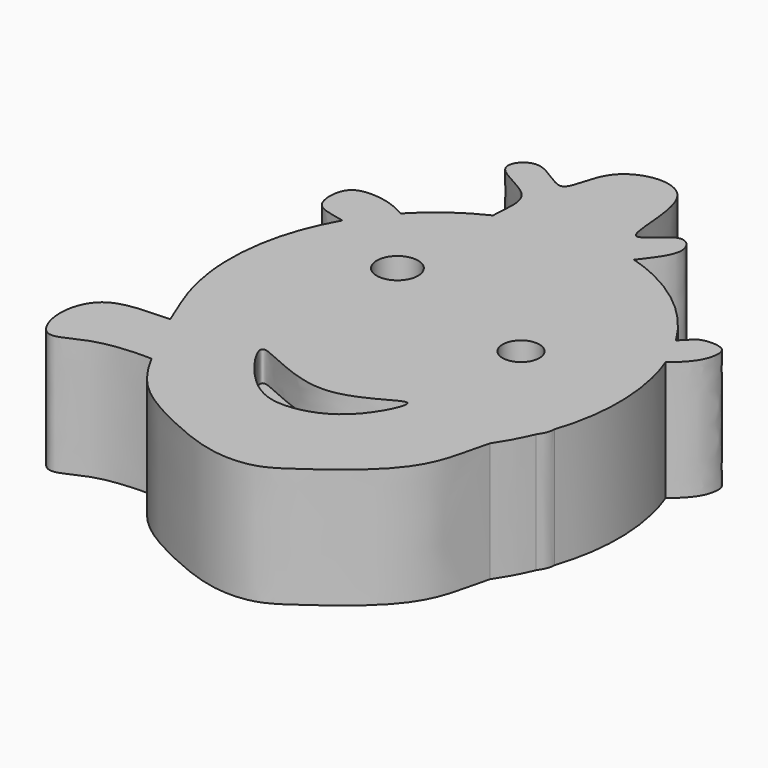
from build123d import *

# Parameters (mm, degrees)
F1_DEPTH = 20
F2_R     = 3.450121942
F2_R_2   = 3.0785056901
F3_DEPTH = 5


with BuildPart() as f1:
    # F0 (on Top) → F1 (new body)
    with BuildSketch(Plane.XY):
        with BuildLine():
            add(Edge.make_bspline(
                [(29.7017715109, -13.8018886657), (30.2424490524, -12.5284639479), (30.6817100321, -11.213025644)],
                knots=[1.1527914673, 1.1527914673, 1.1527914673, 1.2347100445, 1.2347100445, 1.2347100445], degree=2, weights=[1, 0.9991612856, 1]))
            add(Edge.make_bspline(
                [(30.6817100321, -11.213025644), (34.708540224, 0.8459709936), (30.1492533044, 12.695693315)],
                knots=[1.2347100445, 1.2347100445, 1.2347100445, 1.9534707094, 1.9534707094, 1.9534707094], degree=2, weights=[1, 0.9361149369, 1]))
            add(Edge.make_bspline(
                [(30.1492533044, 12.695693315), (29.0147047765, 15.6444186865), (27.3773586249, 18.3220409535)],
                knots=[1.9534707094, 1.9534707094, 1.9534707094, 2.1399075308, 2.1399075308, 2.1399075308], degree=2, weights=[1, 0.9956583093, 1]))
            add(Edge.make_bspline(
                [(27.3773586249, 18.3220409535), (20.7267636074, 29.19804374), (8.8519171525, 32.7145800478)],
                knots=[2.1399075308, 2.1399075308, 2.1399075308, 2.8657408022, 2.8657408022, 2.8657408022], degree=2, weights=[1, 0.9348653888, 1]))
            add(Edge.make_bspline(
                [(8.8519171525, 32.7145800478), (-2.5451541307, 36.089631264), (-13.3453627293, 31.0013230552)],
                knots=[2.8657408022, 2.8657408022, 2.8657408022, 3.5647337592, 3.5647337592, 3.5647337592], degree=2, weights=[1, 0.9395452502, 1]))
            add(Edge.make_bspline(
                [(-13.3453627293, 31.0013230552), (-18.8495819488, 28.4081172313), (-23.096546599, 23.9201088971)],
                knots=[3.5647337592, 3.5647337592, 3.5647337592, 3.9320327626, 3.9320327626, 3.9320327626], degree=2, weights=[1, 0.9831837737, 1]))
            add(Edge.make_bspline(
                [(-23.096546599, 23.9201088971), (-25.8085364067, 21.0541955067), (-27.8044370726, 17.6041079287)],
                knots=[3.9320327626, 3.9320327626, 3.9320327626, 4.1681491719, 4.1681491719, 4.1681491719], degree=2, weights=[1, 0.9930392206, 1]))
            add(Edge.make_bspline(
                [(-27.8044370726, 17.6041079287), (-33.8014571444, 7.2377380943), (-32.1799301678, -4.7599533709)],
                knots=[4.1681491719, 4.1681491719, 4.1681491719, 4.85284901, 4.85284901, 4.85284901], degree=2, weights=[1, 0.9419683956, 1]))
            add(Edge.make_bspline(
                [(-32.1799301678, -4.7599533709), (-31.6664898484, -7.8321181347), (-30.7952557297, -10.8309770505), (-29.7539456963, -13.6783451409)],
                knots=[0, 0, 0, 0, 0.0589354021, 0.0589354021, 0.0589354021, 0.0589354021], degree=3))
            add(Edge.make_bspline(
                [(-29.7539456963, -13.6783451409), (-21.2178956859, -34), (0, -34)],
                knots=[5.1264213734, 5.1264213734, 5.1264213734, 6.2831853072, 6.2831853072, 6.2831853072], degree=2, weights=[1, 0.8373482755, 1]))
            add(Edge.make_bspline(
                [(0, -34), (16.8769695088, -34), (26.5849481495, -19.5574965996)],
                knots=[0, 0, 0, 0.9579226583, 0.9579226583, 0.9579226583], degree=2, weights=[1, 0.8874740808, 1]))
            add(Edge.make_bspline(
                [(26.5849481495, -19.5574965996), (26.8844022138, -18.5352047025), (27.6995992329, -16.3013966795), (29.0862082372, -14.6958061684), (29.7017715109, -13.8018886657)],
                knots=[0.8888601347, 0.8888601347, 0.8888601347, 0.8888601347, 0.9202080916, 0.9615694415, 0.9615694415, 0.9615694415, 0.9615694415], degree=3))
        make_face()
        with BuildLine():
            add(Edge.make_bspline(
                [(29.7017715109, -13.8018886657), (30.2737170696, -12.9713125619), (30.6961194256, -12.1575167226), (30.6817100321, -11.213025644)],
                knots=[0.9615694415, 0.9615694415, 0.9615694415, 0.9615694415, 1, 1, 1, 1], degree=3))
            add(Edge.make_bspline(
                [(29.7017715109, -13.8018886657), (30.2424490524, -12.5284639479), (30.6817100321, -11.213025644)],
                knots=[1.1527914673, 1.1527914673, 1.1527914673, 1.2347100445, 1.2347100445, 1.2347100445], degree=2, weights=[1, 0.9991612856, 1]))
        make_face()
        with BuildLine():
            add(Edge.make_bspline(
                [(30.1492533044, 12.695693315), (29.0147047765, 15.6444186865), (27.3773586249, 18.3220409535)],
                knots=[1.9534707094, 1.9534707094, 1.9534707094, 2.1399075308, 2.1399075308, 2.1399075308], degree=2, weights=[1, 0.9956583093, 1]))
            add(Edge.make_bspline(
                [(27.3773586249, 18.3220409535), (28.6507177117, 19.5505148249), (29.2905101337, 20.8479356906), (34.0302548794, 20.8102361344), (34.2342793663, 17.5444166895), (32.9419942754, 14.8833340498), (30.1492533044, 12.695693315)],
                knots=[0, 0, 0, 0, 0.2363779321, 0.4774771861, 0.6692163083, 1, 1, 1, 1], degree=3))
        make_face()
        with BuildLine():
            add(Edge.make_bspline(
                [(26.5849481495, -19.5574965996), (28.4122378854, -16.8390482797), (29.7017715109, -13.8018886657)],
                knots=[0.9579226583, 0.9579226583, 0.9579226583, 1.1527914673, 1.1527914673, 1.1527914673], degree=2, weights=[1, 0.9952570225, 1]))
            add(Edge.make_bspline(
                [(26.5849481495, -19.5574965996), (26.8844022138, -18.5352047025), (27.6995992329, -16.3013966795), (29.0862082372, -14.6958061684), (29.7017715109, -13.8018886657)],
                knots=[0.8888601347, 0.8888601347, 0.8888601347, 0.8888601347, 0.9202080916, 0.9615694415, 0.9615694415, 0.9615694415, 0.9615694415], degree=3))
        make_face()
        with BuildLine():
            add(Edge.make_bspline(
                [(-22.8574276114, -28.461734013), (-21.4286408263, -31.0937109557), (-18.1711184134, -36.1387207151), (-8.8930644294, -41.0062149861), (-0.3673117397, -44.372766183), (6.8263243633, -44.0875854195), (11.6022133081, -40.8451261159), (19.9636257208, -34.7551525668), (24.9244424304, -28.1773265534), (25.8941359668, -21.9158272447), (26.5849481495, -19.5574965996)],
                knots=[0.1781244977, 0.1781244977, 0.1781244977, 0.1781244977, 0.2579459018, 0.3634236066, 0.4604826011, 0.5422590758, 0.6179730258, 0.7194843685, 0.8165433653, 0.8888601347, 0.8888601347, 0.8888601347, 0.8888601347], degree=3))
            add(Edge.make_bspline(
                [(0, -34), (16.8769695088, -34), (26.5849481495, -19.5574965996)],
                knots=[0, 0, 0, 0.9579226583, 0.9579226583, 0.9579226583], degree=2, weights=[1, 0.8874740808, 1]))
            add(Edge.make_bspline(
                [(-29.7539456963, -13.6783451409), (-21.2178956859, -34), (0, -34)],
                knots=[5.1264213734, 5.1264213734, 5.1264213734, 6.2831853072, 6.2831853072, 6.2831853072], degree=2, weights=[1, 0.8373482755, 1]))
            add(Edge.make_bspline(
                [(-29.7539456963, -13.6783451409), (-29.1853594736, -15.2330927331), (-28.5660653802, -16.7426735704), (-27.9266234964, -18.1943593012)],
                knots=[0.0589354021, 0.0589354021, 0.0589354021, 0.0589354021, 0.0911158831, 0.0911158831, 0.0911158831, 0.0911158831], degree=3))
            add(Edge.make_bspline(
                [(-27.9266234964, -18.1943593012), (-26.7572374034, -20.8491449008), (-24.928711996, -24.4879039219), (-23.361453992, -27.5332639109), (-22.8574276114, -28.461734013)],
                knots=[0.0911158831, 0.0911158831, 0.0911158831, 0.0911158831, 0.1499662771, 0.1781244977, 0.1781244977, 0.1781244977, 0.1781244977], degree=3))
        make_face()
        with BuildLine():
            add(Edge.make_bspline(
                [(8.8519171525, 32.7145800478), (-2.5451541307, 36.089631264), (-13.3453627293, 31.0013230552)],
                knots=[2.8657408022, 2.8657408022, 2.8657408022, 3.5647337592, 3.5647337592, 3.5647337592], degree=2, weights=[1, 0.9395452502, 1]))
            add(Edge.make_bspline(
                [(-13.3453627293, 31.0013230552), (-13.2039965664, 33.9993611407), (-12.0602535423, 38.9104448386), (-22.9372056925, 41.6933726664), (-17.6982155529, 48.0720825188), (-9.9584447601, 39.5484563713), (-10.4891769636, 52.093246964), (5.5509861472, 54.4160194147), (2.7788756697, 33.20394535), (9.5268371974, 43.0303530604), (13.4221900935, 38.4345977615), (10.6375198636, 35.0782475925), (8.8519171525, 32.7145800478)],
                knots=[0, 0, 0, 0, 0.1012441255, 0.2071280529, 0.2834658507, 0.3826185153, 0.4868798478, 0.6073999093, 0.7421562093, 0.8312479872, 0.8999522506, 1, 1, 1, 1], degree=3))
        make_face()
        with BuildLine():
            add(Edge.make_bspline(
                [(-27.9266234964, -18.1943593012), (-32.0653232012, -18.3761505405), (-38.5903169407, -18.2501835864), (-41.1123982372, -26.2174139351), (-38.141293842, -33.1221590015), (-32.2851784627, -28.5967174666), (-25.1775943875, -28.374192964), (-22.8574276114, -28.461734013)],
                knots=[0, 0, 0, 0, 0.2324839523, 0.4257011039, 0.5969067076, 0.7749438679, 1, 1, 1, 1], degree=3))
            add(Edge.make_bspline(
                [(-27.9266234964, -18.1943593012), (-26.7572374034, -20.8491449008), (-24.928711996, -24.4879039219), (-23.361453992, -27.5332639109), (-22.8574276114, -28.461734013)],
                knots=[0.0911158831, 0.0911158831, 0.0911158831, 0.0911158831, 0.1499662771, 0.1781244977, 0.1781244977, 0.1781244977, 0.1781244977], degree=3))
        make_face()
        with BuildLine():
            add(Edge.make_bspline(
                [(-32.1799301678, -4.7599533709), (-31.5536482494, -9.3938184466), (-29.7539456963, -13.6783451409)],
                knots=[4.85284901, 4.85284901, 4.85284901, 5.1264213734, 5.1264213734, 5.1264213734], degree=2, weights=[1, 0.9906593479, 1]))
            add(Edge.make_bspline(
                [(-32.1799301678, -4.7599533709), (-31.6664898484, -7.8321181347), (-30.7952557297, -10.8309770505), (-29.7539456963, -13.6783451409)],
                knots=[0, 0, 0, 0, 0.0589354021, 0.0589354021, 0.0589354021, 0.0589354021], degree=3))
        make_face()
        with BuildLine():
            add(Edge.make_bspline(
                [(-23.096546599, 23.9201088971), (-25.8085364067, 21.0541955067), (-27.8044370726, 17.6041079287)],
                knots=[3.9320327626, 3.9320327626, 3.9320327626, 4.1681491719, 4.1681491719, 4.1681491719], degree=2, weights=[1, 0.9930392206, 1]))
            add(Edge.make_bspline(
                [(-23.096546599, 23.9201088971), (-25.4189054895, 25.2084401928), (-28.3309475052, 26.0101253596), (-33.5175261395, 25.6440523755), (-33.6722318056, 18.4793473822), (-30.536944075, 18.2471703796), (-27.8044370726, 17.6041079287)],
                knots=[0, 0, 0, 0, 0.2712980575, 0.4928199065, 0.7393122626, 1, 1, 1, 1], degree=3))
        make_face()
    extrude(amount=F1_DEPTH)

    # F2 (on face) → F3 (cut)
    with BuildSketch(Plane.XY.offset(20)):
        with Locations((-13.7674836442, 11.5646859631)):
            Circle(F2_R)
        with Locations((13.4921316057, 3.3041958231)):
            Circle(F2_R_2)
        with BuildLine():
            add(Edge.make_bspline(
                [(-13.2167842239, -17.347028479), (-12.3578494347, -16.491840797), (0.1895415623, -25.8089492741), (13.8193383715, -13.3288482801), (8.2046070442, -25.2989261468), (-0.0330815413, -28.6013395639), (-7.6671517835, -27.1323886799), (-13.9377557378, -18.0648547511), (-13.2167842239, -17.347028479)],
                knots=[0, 0, 0, 0, 0.1980539293, 0.3803910215, 0.5218162101, 0.6818596072, 0.8337577625, 1, 1, 1, 1], degree=3))
        make_face()
    extrude(amount=-F3_DEPTH, mode=Mode.SUBTRACT)


solid = f1.part
